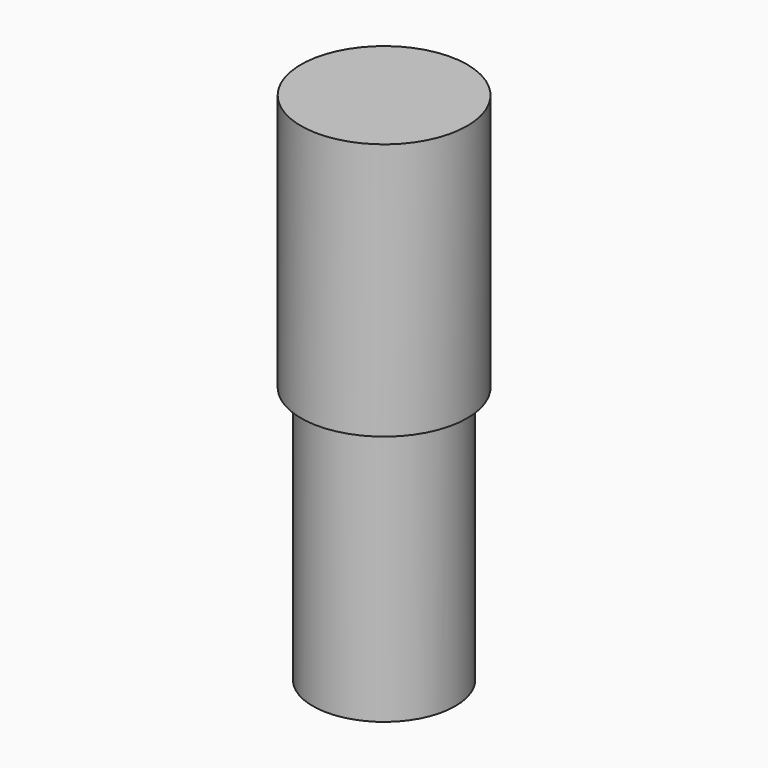
from build123d import *

# Parameters (mm, degrees)
F0_R     = 2.1
F1_DEPTH = 6.5
F2_R     = 1.8
F3_DEPTH = 6.5


with BuildPart() as f1:
    # F0 (on Top) → F1 (new body)
    with BuildSketch(Plane.XY):
        Circle(F0_R)
    extrude(amount=-F1_DEPTH)

    # F2 (on face) → F3 (join)
    with BuildSketch(Plane(origin=(0, 0, -6.5), x_dir=(1, 0, 0), z_dir=(0, 0, -1))):
        Circle(F2_R)
    extrude(amount=F3_DEPTH)


solid = f1.part
